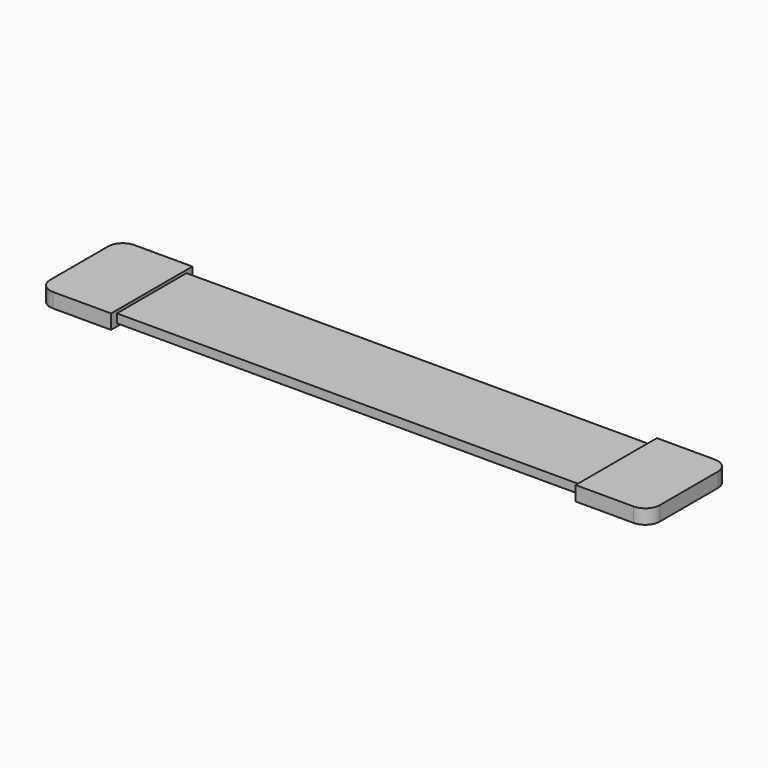
from build123d import *

# Parameters (mm, degrees)
F0_W     = 106.68
F0_H     = 17.78
F1_DEPTH = 2.54
F2_R     = 2.54
F3_W     = 81.28
F3_H     = 1.27
F4_DEPTH = 25.4
F5_W     = 81.28
F5_H     = 15.24
F6_DEPTH = 0.508
F7_W     = 81.28
F7_H     = 16.51
F8_DEPTH = 0.508


with BuildPart() as f1:
    # F0 (on Top) → F1 (new body)
    with BuildSketch(Plane.XY):
        with Locations((53.34, 8.89)):
            Rectangle(F0_W, F0_H)
    extrude(amount=F1_DEPTH)

    # F2
    f2_edges = [f1.edges().sort_by_distance(p)[0] for p in [
        (106.68, 17.78, 1.27),
        (106.68, 0, 1.27),
        (0, 17.78, 1.27),
        (0, 0, 1.27),
    ]]
    fillet(f2_edges, radius=F2_R)

    # F3 (on face) → F4 (cut)
    with BuildSketch(Plane.XY.offset(2.54)):
        with Locations((53.34, 17.145)):
            Rectangle(F3_W, F3_H)
        with Locations((53.34, 0.635)):
            Rectangle(F3_W, F3_H)
    extrude(amount=-F4_DEPTH, mode=Mode.SUBTRACT)

    # F5 (on face) → F6 (cut)
    with BuildSketch(Plane.XY.offset(2.54)):
        with Locations((53.34, 8.89)):
            Rectangle(F5_W, F5_H)
    extrude(amount=-F6_DEPTH, mode=Mode.SUBTRACT)

    # F7 (on face) → F8 (cut)
    with BuildSketch(Plane(origin=(0, 0, 0), x_dir=(1, 0, 0), z_dir=(0, 0, -1))):
        with Locations((53.34, -8.255)):
            Rectangle(F7_W, F7_H)
    extrude(amount=-F8_DEPTH, mode=Mode.SUBTRACT)


solid = f1.part
